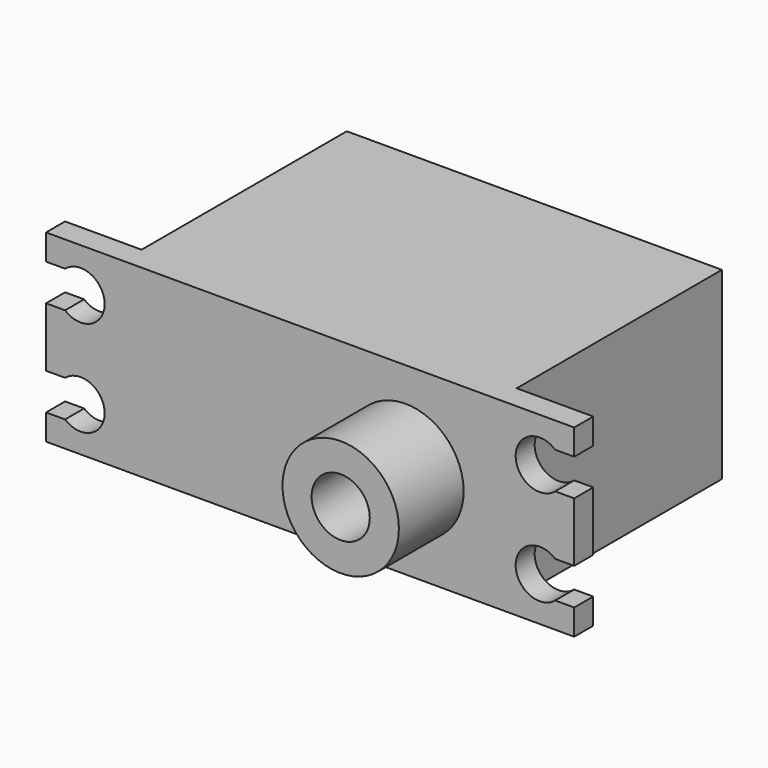
from build123d import *

# Parameters (mm, degrees)
F0_W     = 38.481
F0_H     = 18.8976
F1_DEPTH = 26.3144
F3_DEPTH = 2.4384
F4_R     = 5.969
F5_DEPTH = 10.7442
F6_R     = 2.9845
F7_DEPTH = 14.1986


with BuildPart() as f1:
    # F0 (on Front) → F1 (new body)
    with BuildSketch(Plane.XZ):
        Rectangle(F0_W, F0_H)
    extrude(amount=-F1_DEPTH)

    # F2 (on Front) → F3 (join)
    with BuildSketch(Plane.XZ):
        with BuildLine():
            Line((27.0891, 6.8072), (27.0891, 9.4488))
            Line((27.0891, 9.4488), (-27.0891, 9.4488))
            Line((-27.0891, 9.4488), (-27.0891, 6.8072))
            Line((-27.0891, 6.8072), (-25.138726, 6.8072))
            ThreePointArc((-25.138726, 6.8072), (-21.082, 4.9276), (-25.138726, 3.048))
            Line((-25.138726, 3.048), (-27.0891, 3.048))
            Line((-27.0891, 3.048), (-27.0891, -3.048))
            Line((-27.0891, -3.048), (-25.138726, -3.048))
            ThreePointArc((-25.138726, -3.048), (-21.082, -4.9276), (-25.138726, -6.8072))
            Line((-25.138726, -6.8072), (-27.0891, -6.8072))
            Line((-27.0891, -6.8072), (-27.0891, -9.4488))
            Line((-27.0891, -9.4488), (27.0891, -9.4488))
            Line((27.0891, -9.4488), (27.0891, -6.8072))
            Line((27.0891, -6.8072), (25.138726, -6.8072))
            ThreePointArc((25.138726, -6.8072), (21.082, -4.9276), (25.138726, -3.048))
            Line((25.138726, -3.048), (27.0891, -3.048))
            Line((27.0891, -3.048), (27.0891, 3.048))
            Line((27.0891, 3.048), (25.138726, 3.048))
            ThreePointArc((25.138726, 3.048), (21.082, 4.9276), (25.138726, 6.8072))
            Line((25.138726, 6.8072), (27.0891, 6.8072))
        make_face()
    extrude(amount=F3_DEPTH)

    # F4 (on Front) → F5 (join)
    with BuildSketch(Plane.XZ):
        with Locations((9.779, 0)):
            Circle(F4_R)
    extrude(amount=F5_DEPTH)

    # F6 (on Front) → F7 (cut)
    with BuildSketch(Plane.XZ):
        with Locations((9.779, 0)):
            Circle(F6_R)
    extrude(amount=F7_DEPTH, mode=Mode.SUBTRACT)


solid = f1.part
